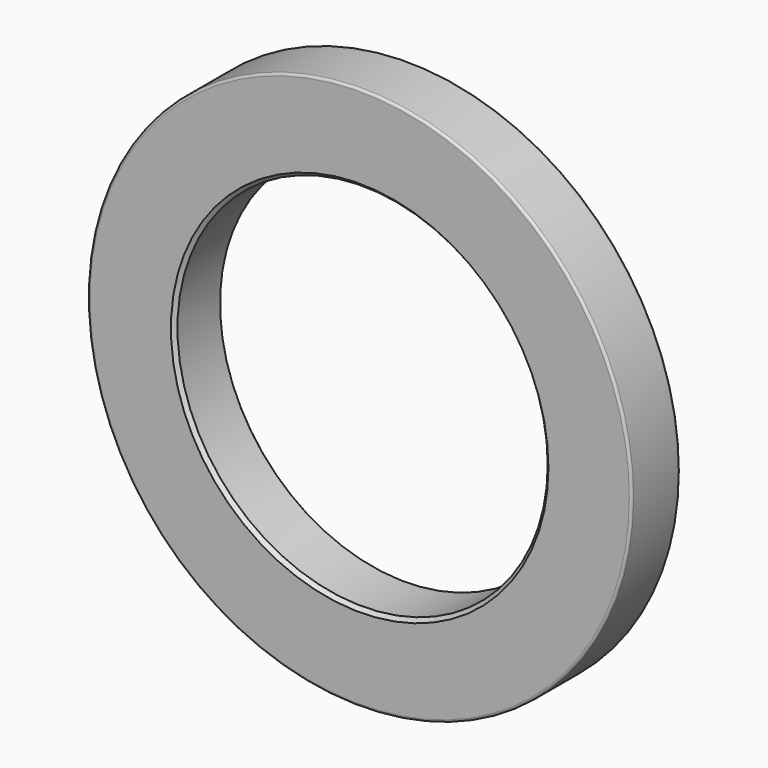
from build123d import *

# Parameters (mm, degrees)
F0_R     = 28.575
F0_R_2   = 19.4437
F1_DEPTH = 6.35
F2_SIZE  = 0.381
F3_R     = 0.254


with BuildPart() as f1:
    # F0 (on Front) → F1 (new body)
    with BuildSketch(Plane.XZ):
        Circle(F0_R)
        Circle(F0_R_2, mode=Mode.SUBTRACT)
    extrude(amount=F1_DEPTH)

    # F2
    f2_edges = [f1.edges().sort_by_distance(p)[0] for p in [
        (-19.4437, -6.35, 0),
        (-19.4437, 0, 0),
    ]]
    chamfer(f2_edges, length=F2_SIZE)

    # F3
    f3_edges = [f1.edges().sort_by_distance(p)[0] for p in [
        (-28.575, 0, 0),
        (-28.575, -6.35, 0),
    ]]
    fillet(f3_edges, radius=F3_R)


solid = f1.part
